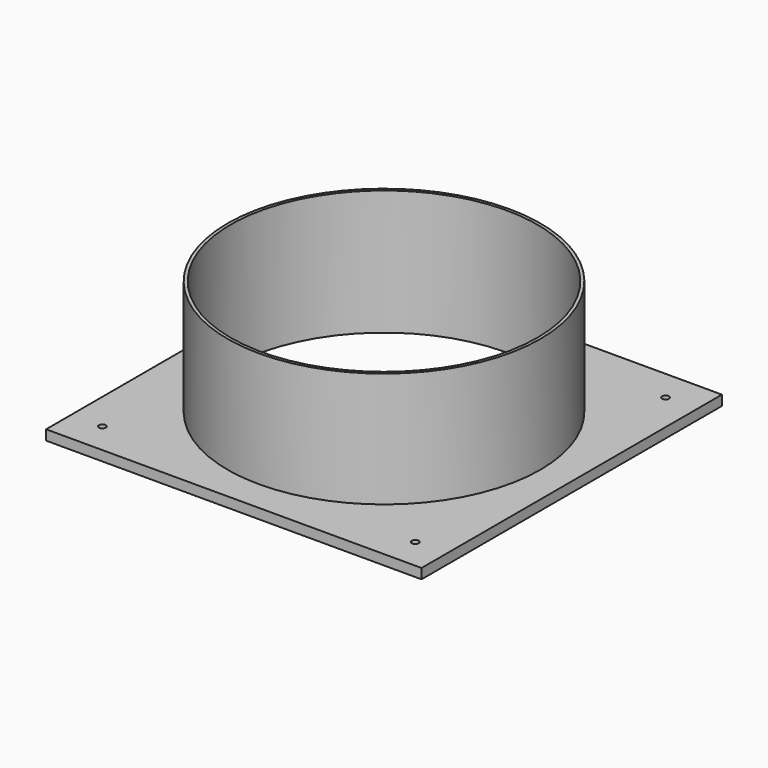
from build123d import *

# Parameters (mm, degrees)
F0_W     = 120
F0_H     = 120
F0_R     = 1.1
F0_R_2   = 50
F1_DEPTH = 3.2
F0_R_3   = 49
F2_DEPTH = 40


with BuildPart() as f1:
    # F0 (on Top) → F1 (new body)
    with BuildSketch(Plane.XY):
        Rectangle(F0_W, F0_H)
        with Locations((-50, -50)):
            Circle(F0_R, mode=Mode.SUBTRACT)
        with Locations((50, -50)):
            Circle(F0_R, mode=Mode.SUBTRACT)
        with Locations((-50, 50)):
            Circle(F0_R, mode=Mode.SUBTRACT)
        Circle(F0_R_2, mode=Mode.SUBTRACT)
        with Locations((50, 50)):
            Circle(F0_R, mode=Mode.SUBTRACT)
    extrude(amount=F1_DEPTH)

    # F0 (on Top) → F2 (join)
    with BuildSketch(Plane.XY):
        Circle(F0_R_2)
        Circle(F0_R_3, mode=Mode.SUBTRACT)
    extrude(amount=F2_DEPTH)


solid = f1.part
